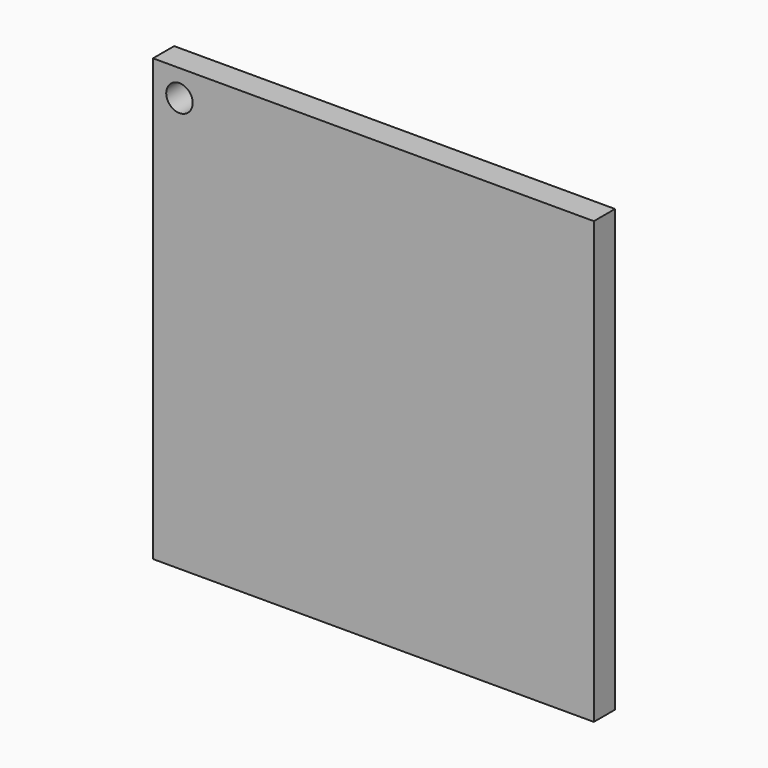
from build123d import *

# Parameters (mm, degrees)
F0_W     = 50
F0_H     = 50
F1_DEPTH = 3
F2_R     = 1.5
F3_DEPTH = 25


with BuildPart() as f1:
    # F0 (on Front) → F1 (new body)
    with BuildSketch(Plane.XZ):
        Rectangle(F0_W, F0_H)
    extrude(amount=F1_DEPTH)

    # F2 (on face) → F3 (cut)
    with BuildSketch(Plane.XZ.offset(3)):
        with Locations((-22, 22)):
            Circle(F2_R)
    extrude(amount=-F3_DEPTH, mode=Mode.SUBTRACT)


solid = f1.part
